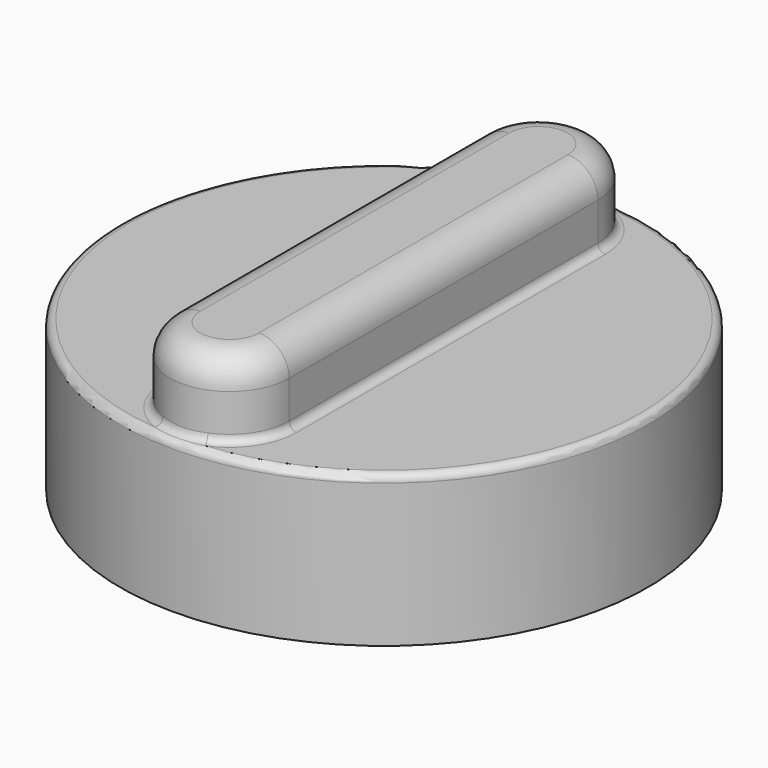
from build123d import *

# Parameters (mm, degrees)
SKETCH048_R  = 17.5
PAD032_DEPTH = 10
PAD033_DEPTH = 5
FILLET011_R  = 0.5
FILLET012_R  = 0.5
FILLET013_R  = 2


with BuildPart() as part:
    # Sketch048 (on DatumPlane) → Pad032 (new body)
    with BuildSketch(Plane(origin=(0, 15.789559, -564.544271), x_dir=(0, 1, 0), z_dir=(0, 0, 1))):
        Circle(SKETCH048_R)
    extrude(amount=PAD032_DEPTH)

    # Sketch049 (on Face3 of Pad032) → Pad033 (join)
    with BuildSketch(Plane(origin=(0, 15.789559, -554.544271), x_dir=(0, 1, 0), z_dir=(0, 0, 1))):
        with BuildLine():
            ThreePointArc((-12.797492, 3.946719), (-16.744211, 0), (-12.797492, -3.946719))
            Line((-12.797492, -3.946719), (12.797492, -3.946719))
            ThreePointArc((12.797492, -3.946719), (16.744211, 0), (12.797492, 3.946719))
            Line((-12.797492, 3.946719), (12.797492, 3.946719))
        make_face()
    extrude(amount=PAD033_DEPTH)

    # Fillet011
    fillet011_edges = [part.edges().sort_by_distance(p)[0] for p in [
        (0, -1.710441, -554.544271),
    ]]
    fillet(fillet011_edges, radius=FILLET011_R)

    # Fillet012
    fillet012_edges = [part.edges().sort_by_distance(p)[0] for p in [
        (-3.946719, 15.789559, -554.544271),
    ]]
    fillet(fillet012_edges, radius=FILLET012_R)

    # Fillet013
    fillet013_edges = [part.edges().sort_by_distance(p)[0] for p in [
        (0, 32.53377, -549.544271),
    ]]
    fillet(fillet013_edges, radius=FILLET013_R)


solid = part.part
